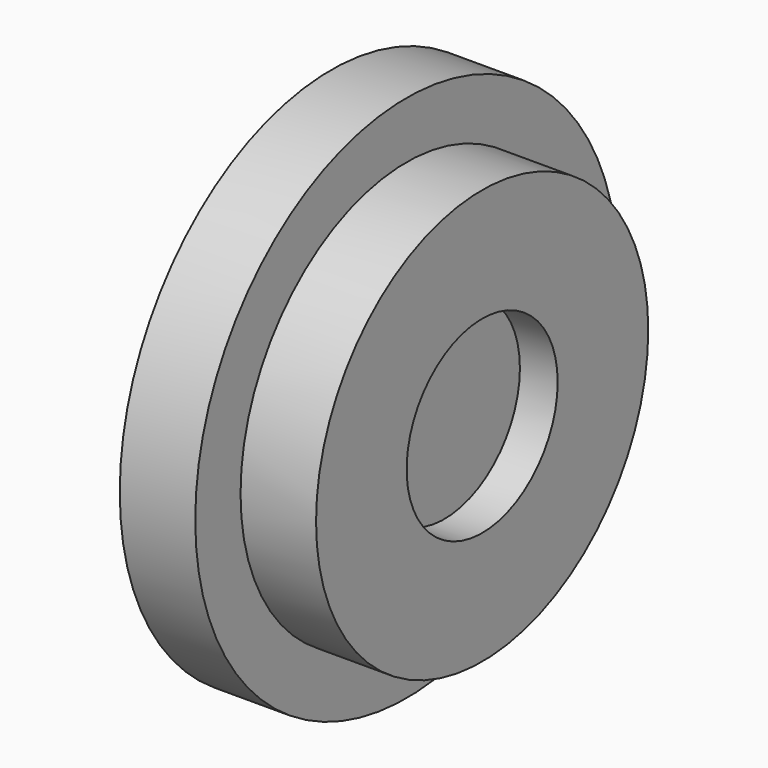
from build123d import *

# Parameters (mm, degrees)
F0_R     = 350
F1_DEPTH = 100
F2_R     = 275
F3_DEPTH = 100
F4_R     = 125
F5_DEPTH = 50


with BuildPart() as f1:
    # F0 (on Right) → F1 (new body)
    with BuildSketch(Plane.YZ):
        Circle(F0_R)
    extrude(amount=F1_DEPTH)


with BuildPart() as f3:
    # F2 (on face) → F3 (new body)
    with BuildSketch(Plane.YZ.offset(100)):
        Circle(F2_R)
    extrude(amount=F3_DEPTH)

    # F4 (on face) → F5 (cut)
    with BuildSketch(Plane.YZ.offset(200)):
        Circle(F4_R)
    extrude(amount=-F5_DEPTH, mode=Mode.SUBTRACT)


solid = Compound([f1.part, f3.part])
